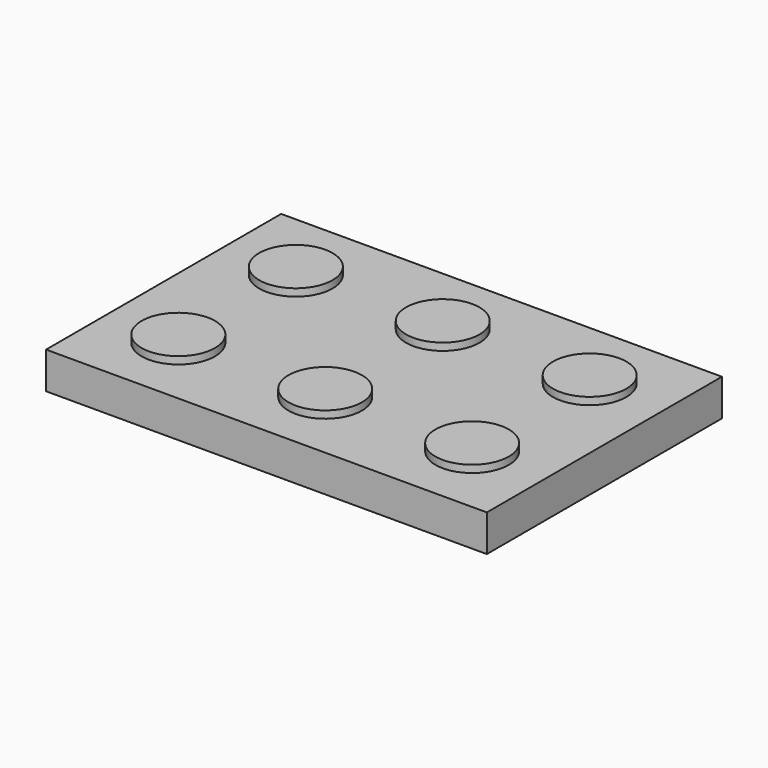
from build123d import *

# Parameters (mm, degrees)
F0_R     = 6.35
F1_DEPTH = 6.35
F2_DEPTH = 7.62


with BuildPart() as f1:
    # F0 (on Top) → F1 (new body)
    with BuildSketch(Plane.XY):
        Polygon((-29.197408, 4.85902), (-41.897408, 4.85902), (-41.897408, -7.84098), (-41.897408, -33.24098), (-41.897408, -45.94098), (34.302592, -45.94098), (34.302592, 4.85902), (21.602592, 4.85902), (-3.797408, 4.85902), align=None)
        with Locations((-29.197408, -33.24098)):
            Circle(F0_R, mode=Mode.SUBTRACT)
        with Locations((-3.797408, -33.24098)):
            Circle(F0_R, mode=Mode.SUBTRACT)
        with Locations((21.602592, -33.24098)):
            Circle(F0_R, mode=Mode.SUBTRACT)
        with Locations((-29.197408, -7.84098)):
            Circle(F0_R, mode=Mode.SUBTRACT)
        with Locations((-3.797408, -7.84098)):
            Circle(F0_R, mode=Mode.SUBTRACT)
        with Locations((21.602592, -7.84098)):
            Circle(F0_R, mode=Mode.SUBTRACT)
    extrude(amount=F1_DEPTH)

    # F0 (on Top) → F2 (join)
    with BuildSketch(Plane.XY):
        with Locations((21.602592, -7.84098)):
            Circle(F0_R)
        with Locations((-3.797408, -7.84098)):
            Circle(F0_R)
        with Locations((-29.197408, -7.84098)):
            Circle(F0_R)
        with Locations((-29.197408, -33.24098)):
            Circle(F0_R)
        with Locations((-3.797408, -33.24098)):
            Circle(F0_R)
        with Locations((21.602592, -33.24098)):
            Circle(F0_R)
    extrude(amount=F2_DEPTH)


solid = f1.part
